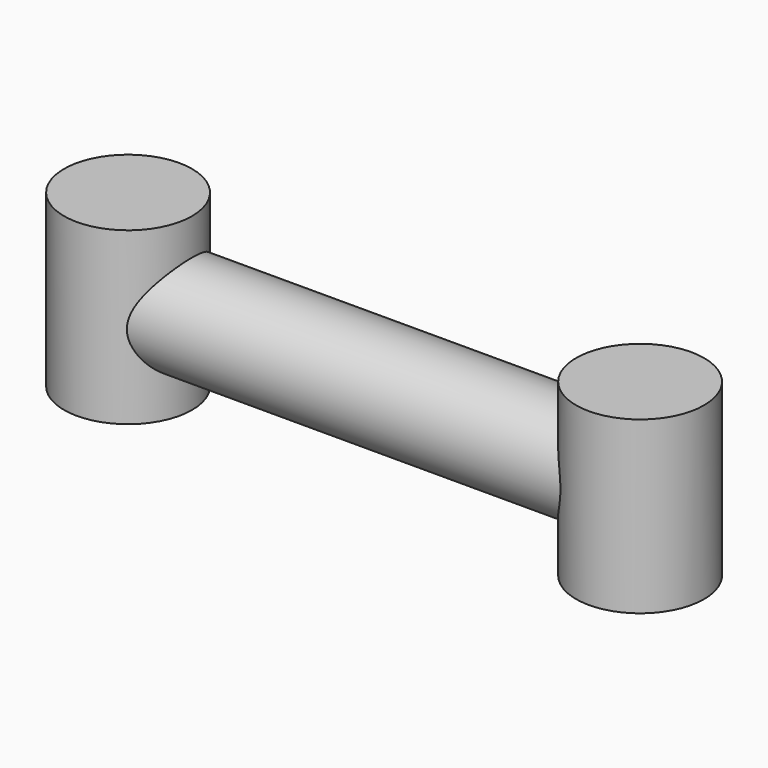
from build123d import *

# Parameters (mm, degrees)
F0_R     = 19.05
F1_DEPTH = 50.8
F2_R     = 15.046627
F3_DEPTH = 152.4


with BuildPart() as f1:
    # F0 (on Top) → F1 (new body)
    with BuildSketch(Plane.XY):
        Circle(F0_R)
        with Locations((-152.4, 0)):
            Circle(F0_R)
    extrude(amount=F1_DEPTH)

    # F2 (on Right) → F3 (join)
    with BuildSketch(Plane.YZ):
        with Locations((0, 24.895199)):
            Circle(F2_R)
    extrude(amount=-F3_DEPTH)


solid = f1.part
